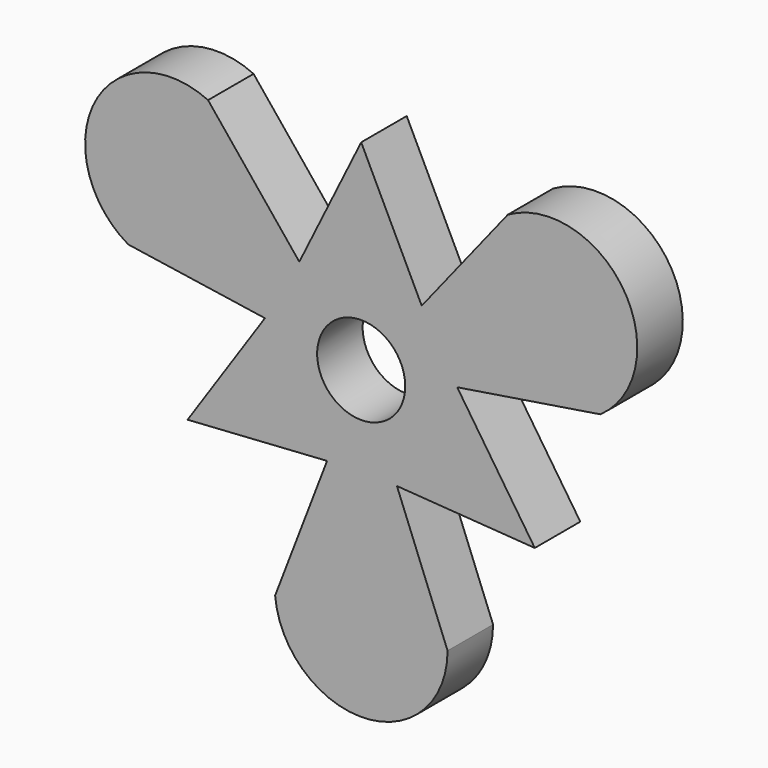
from build123d import *

# Parameters (mm, degrees)
F2_DEPTH = 14.224
F4_D     = 22.0218


with BuildPart() as f2:
    # F0 (on Front) → F2 (new body)
    with BuildSketch(Plane.XZ):
        with BuildLine():
            ThreePointArc((21.074347, 12.16728), (22.905463, 8.21648), (24.003127, 4.002581))
            Line((24.003127, 4.002581), (59.804497, 9.685549))
            ThreePointArc((59.804497, 9.685549), (65.654418, 38.980872), (36.63861, 46.088642))
            Line((36.63861, 46.088642), (15.133637, 19.056332))
            ThreePointArc((15.133637, 19.056332), (18.428762, 15.891869), (21.074347, 12.16728))
        make_face()
        with BuildLine():
            ThreePointArc((24.003127, 4.002581), (24.25156, 2.00814), (24.334559, 0))
            ThreePointArc((24.334559, 0), (20.120081, -13.687699), (8.93645, -22.63428))
            Line((8.93645, -22.63428), (43.407393, -25.06127))
            Line((43.407393, -25.06127), (24.003127, 4.002581))
        make_face()
        with BuildLine():
            ThreePointArc((8.93645, -22.63428), (20.120081, -13.687699), (24.334559, 0))
            ThreePointArc((24.334559, 0), (24.25156, 2.00814), (24.003127, 4.002581))
            Line((24.003127, 4.002581), (0, 0))
            Line((0, 0), (8.93645, -22.63428))
        make_face()
        with BuildLine():
            Line((-15.4679, 18.786028), (0, 0))
            Line((0, 0), (15.133637, 19.056332))
            ThreePointArc((15.133637, 19.056332), (-0.21494, 24.33361), (-15.4679, 18.786028))
        make_face()
        with BuildLine():
            Line((-24.070087, 3.577948), (0, 0))
            Line((0, 0), (-21.074347, 12.16728))
            ThreePointArc((-21.074347, 12.16728), (-22.977143, 8.013842), (-24.070087, 3.577948))
        make_face()
        with BuildLine():
            Line((-21.074347, 12.16728), (0, 0))
            Line((0, 0), (-15.4679, 18.786028))
            ThreePointArc((-15.4679, 18.786028), (-18.568412, 15.728473), (-21.074347, 12.16728))
        make_face()
        with BuildLine():
            ThreePointArc((0, -24.334559), (4.548381, -23.905711), (8.93645, -22.63428))
            Line((8.93645, -22.63428), (0, 0))
            Line((0, 0), (0, -24.334559))
        make_face()
        with BuildLine():
            Line((0, 0), (24.003127, 4.002581))
            ThreePointArc((24.003127, 4.002581), (22.905463, 8.21648), (21.074347, 12.16728))
            Line((21.074347, 12.16728), (0, 0))
        make_face()
        with BuildLine():
            Line((21.59463, -54.774288), (8.93645, -22.63428))
            ThreePointArc((8.93645, -22.63428), (4.548381, -23.905711), (0, -24.334559))
            ThreePointArc((0, -24.334559), (-4.337052, -23.944953), (-8.535227, -22.788609))
            Line((-8.535227, -22.788609), (-21.514317, -56.634989))
            ThreePointArc((-21.514317, -56.634989), (0.931217, -76.34883), (21.59463, -54.774288))
        make_face()
        with BuildLine():
            Line((-58.23324, 8.685646), (-24.070087, 3.577948))
            ThreePointArc((-24.070087, 3.577948), (-22.977143, 8.013842), (-21.074347, 12.16728))
            ThreePointArc((-21.074347, 12.16728), (-18.568412, 15.728473), (-15.4679, 18.786028))
            Line((-15.4679, 18.786028), (-38.29018, 46.949439))
            ThreePointArc((-38.29018, 46.949439), (-66.585635, 37.367958), (-58.23324, 8.685646))
        make_face()
        with BuildLine():
            ThreePointArc((-15.4679, 18.786028), (-0.21494, 24.33361), (15.133637, 19.056332))
            Line((15.133637, 19.056332), (0, 50.12254))
            Line((0, 50.12254), (-15.4679, 18.786028))
        make_face()
        with BuildLine():
            Line((0, -24.334559), (0, 0))
            Line((0, 0), (-8.535227, -22.788609))
            ThreePointArc((-8.535227, -22.788609), (-4.337052, -23.944953), (0, -24.334559))
        make_face()
        with BuildLine():
            Line((0, 0), (21.074347, 12.16728))
            ThreePointArc((21.074347, 12.16728), (18.428762, 15.891869), (15.133637, 19.056332))
            Line((15.133637, 19.056332), (0, 0))
        make_face()
        with BuildLine():
            Line((-8.535227, -22.788609), (0, 0))
            Line((0, 0), (-24.070087, 3.577948))
            ThreePointArc((-24.070087, 3.577948), (-20.966055, -12.352948), (-8.535227, -22.788609))
        make_face()
        with BuildLine():
            Line((-43.407393, -25.06127), (-8.535227, -22.788609))
            ThreePointArc((-8.535227, -22.788609), (-20.966055, -12.352948), (-24.070087, 3.577948))
            Line((-24.070087, 3.577948), (-43.407393, -25.06127))
        make_face()
    extrude(amount=F2_DEPTH)

    # F4 (through all)
    with Locations(Plane(origin=(0, 0, 0), x_dir=(-1, 0, 0), z_dir=(0, 1, 0))):
        with Locations((0, 0)):
            Hole(F4_D / 2)


solid = f2.part
